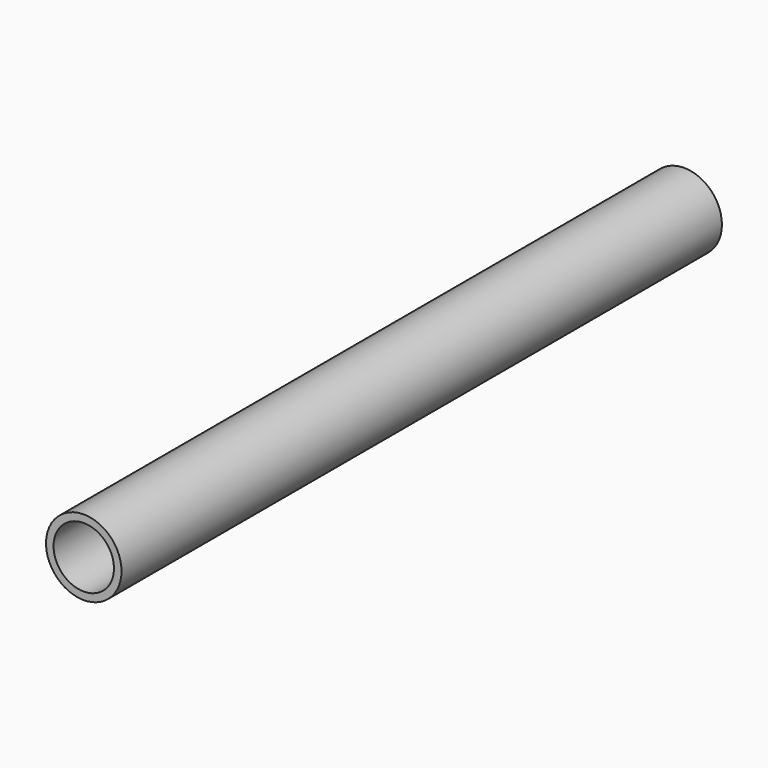
from build123d import *

# Parameters (mm, degrees)
F0_R     = 31.75
F1_DEPTH = 304.8
F2_R     = 25.4
F3_DEPTH = 304.8
F4_DEPTH = 326.39


with BuildPart() as f1:
    # F0 (on Front) → F1 (new body)
    with BuildSketch(Plane.XZ):
        Circle(F0_R)
    extrude(amount=F1_DEPTH)

    # F2 (on face) → F3 (cut)
    with BuildSketch(Plane(origin=(0, 0, 0), x_dir=(-1, 0, 0), z_dir=(0, 1, 0))):
        Circle(F2_R)
    extrude(amount=-F3_DEPTH, mode=Mode.SUBTRACT)

    # F4 (add): a face of the model
    f4_faces = [f1.faces().sort_by_distance(p)[0] for p in [
        (-30.8519743879, -304.8, 0),
    ]]
    extrude(f4_faces, amount=F4_DEPTH)


solid = f1.part
